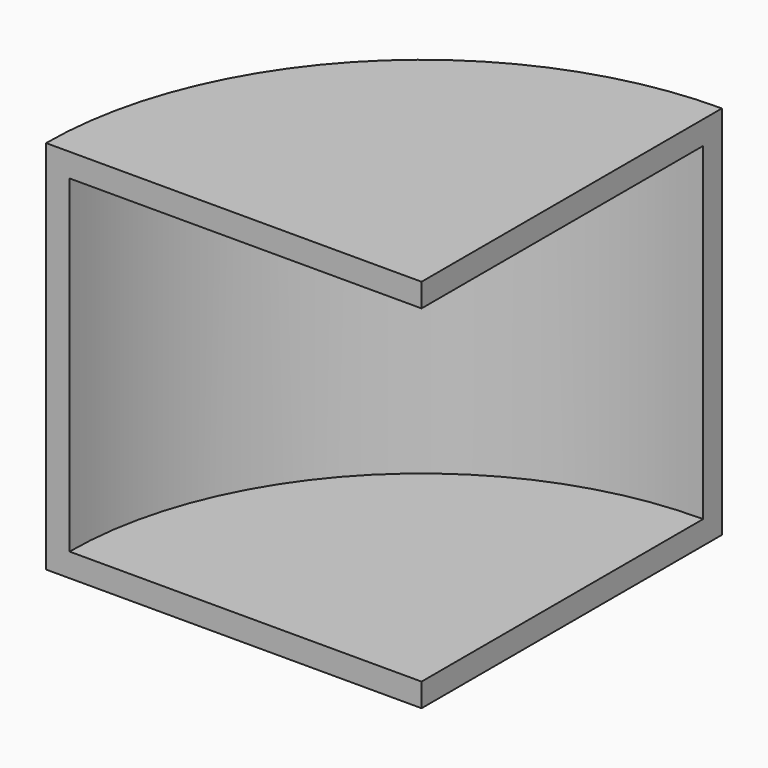
from build123d import *

# Parameters (mm, degrees)
F1_DEPTH = 40
F2_T     = -2.5


with BuildPart() as f1:
    # F0 (on Top) → F1 (new body)
    with BuildSketch(Plane.XY):
        with BuildLine():
            Line((-40, 0), (0, 0))
            Line((0, 0), (0, 40))
            ThreePointArc((0, 40), (-28.284271, 28.284271), (-40, 0))
        make_face()
    extrude(amount=F1_DEPTH)

    # F2
    f2_openings = [f1.faces().sort_by_distance(p)[0] for p in [
        (-20, 0, 20),
        (0, 20, 20),
    ]]
    offset(amount=F2_T, openings=f2_openings)


solid = f1.part
